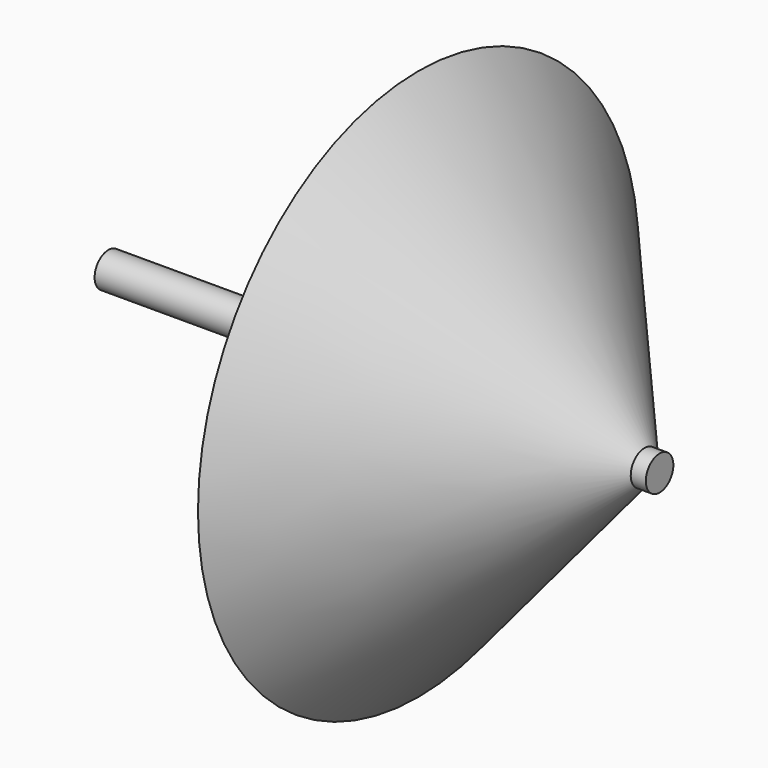
from build123d import *

# Parameters (mm, degrees)
F0_W = 50.8
F0_H = 1.5875


with BuildPart() as f1:
    # F0 (on Top) → F1 (revolve)
    with BuildSketch(Plane.XY):
        with Locations((25.4, 0.79375)):
            Rectangle(F0_W, F0_H)
    revolve(axis=Axis((25.4, 0, 0), (-1, 0, 0)))

    # F2 (on Front) → F3 (revolve)
    with BuildSketch(Plane.XZ):
        Polygon((28.575, 25.4), (28.575, 0), (50.8, 0), align=None)
    revolve(axis=Axis((39.6875, 0, 0), (-1, 0, 0)))


solid = f1.part
